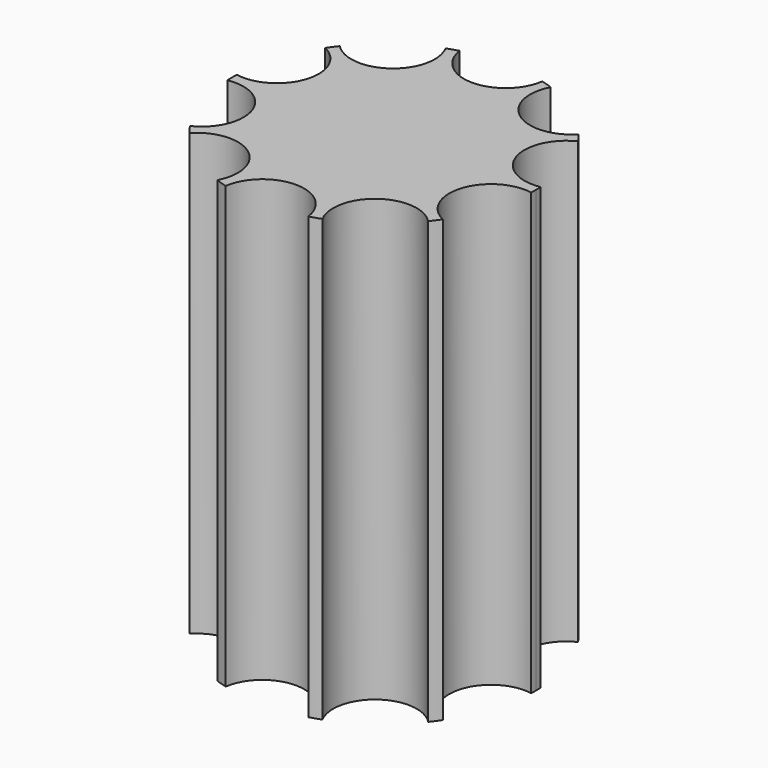
from build123d import *

# Parameters (mm, degrees)
F1_DEPTH = 127


with BuildPart() as f1:
    # F0 (on Top) → F1 (new body)
    with BuildSketch(Plane.XY):
        with BuildLine():
            ThreePointArc((43.769642, -1.702106), (43.794453, -0.851214), (43.802725, 0))
            ThreePointArc((43.802725, 0), (43.794453, 0.851214), (43.769642, 1.702106))
            ThreePointArc((43.769642, 1.702106), (30.226734, 9.821261), (36.410857, 24.350117))
            ThreePointArc((36.410857, 24.350117), (35.437149, 25.746596), (34.409911, 27.104183))
            ThreePointArc((34.409911, 27.104183), (18.681149, 25.712396), (15.144362, 41.101424))
            ThreePointArc((15.144362, 41.101424), (13.535786, 41.658867), (11.906764, 42.153383))
            ThreePointArc((11.906764, 42.153383), (0, 31.782269), (-11.906764, 42.153383))
            ThreePointArc((-11.906764, 42.153383), (-13.535786, 41.658867), (-15.144362, 41.101424))
            ThreePointArc((-15.144362, 41.101424), (-14.086084, 38.356711), (-13.72614, 35.437149))
            ThreePointArc((-13.72614, 35.437149), (-21.254694, 24.287522), (-34.409911, 27.104183))
            ThreePointArc((-34.409911, 27.104183), (-35.437149, 25.746596), (-36.410857, 24.350117))
            ThreePointArc((-36.410857, 24.350117), (-31.471256, 19.915751), (-29.638411, 13.535786))
            ThreePointArc((-29.638411, 13.535786), (-33.94139, 4.319935), (-43.769642, 1.702106))
            ThreePointArc((-43.769642, 1.702106), (-43.802725, 0), (-43.769642, -1.702106))
            ThreePointArc((-43.769642, -1.702106), (-33.94139, -4.319935), (-29.638411, -13.535786))
            ThreePointArc((-29.638411, -13.535786), (-31.471256, -19.915751), (-36.410857, -24.350117))
            ThreePointArc((-36.410857, -24.350117), (-35.437149, -25.746596), (-34.409911, -27.104183))
            ThreePointArc((-34.409911, -27.104183), (-21.254694, -24.287522), (-13.72614, -35.437149))
            ThreePointArc((-13.72614, -35.437149), (-14.086084, -38.356711), (-15.144362, -41.101424))
            ThreePointArc((-15.144362, -41.101424), (-13.535786, -41.658867), (-11.906764, -42.153383))
            ThreePointArc((-11.906764, -42.153383), (0, -31.782269), (11.906764, -42.153383))
            ThreePointArc((11.906764, -42.153383), (13.535786, -41.658867), (15.144362, -41.101424))
            ThreePointArc((15.144362, -41.101424), (18.681149, -25.712396), (34.409911, -27.104183))
            ThreePointArc((34.409911, -27.104183), (35.437149, -25.746596), (36.410857, -24.350117))
            ThreePointArc((36.410857, -24.350117), (30.226734, -9.821261), (43.769642, -1.702106))
        make_face()
    extrude(amount=F1_DEPTH)


solid = f1.part
